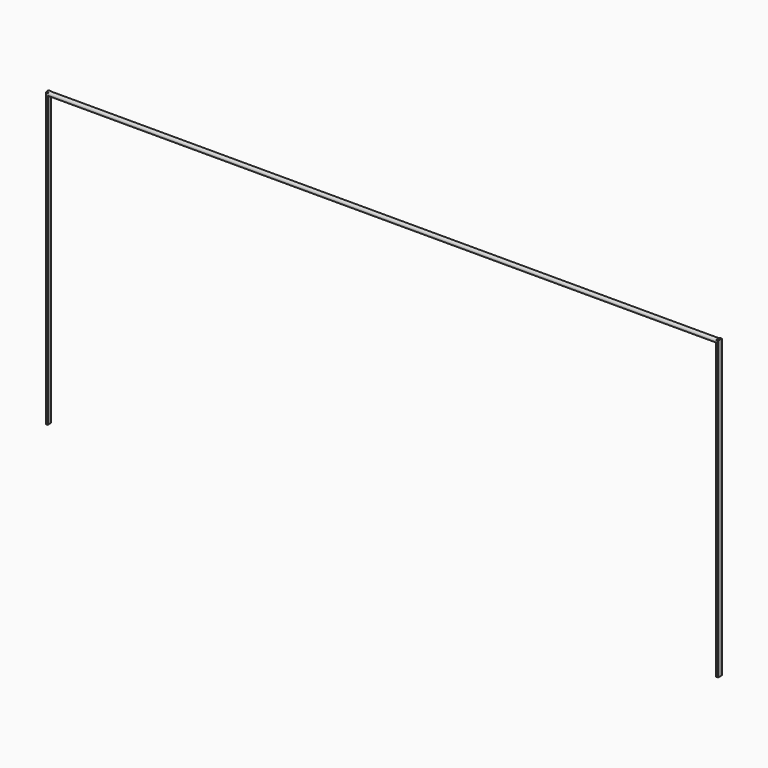
from build123d import *

# Parameters (mm, degrees)
F0_R     = 6.0866726669
F1_DEPTH = 2032
F2_W     = 12.4690905213
F2_H     = 123.6518211663
F3_DEPTH = 5.334
F4_W     = 14.5472697914
F4_H     = 136.9002275169
F5_DEPTH = 6.096
F6_W     = 6.096
F6_H     = 14.5472697914
F7_DEPTH = 762
F8_W     = 5.334
F8_H     = 12.4690905213
F9_DEPTH = 762


with BuildPart() as f1:
    # F0 (on Right) → F1 (new body)
    with BuildSketch(Plane.YZ):
        with Locations((-52.2143170238, 53.5131841898)):
            Circle(F0_R)
    extrude(amount=F1_DEPTH)

    # F2 (on Right) → F3 (join)
    with BuildSketch(Plane.YZ):
        with Locations((-52.214320749, -4.156364128)):
            Rectangle(F2_W, F2_H)
    extrude(amount=F3_DEPTH)

    # F4 (on face) → F5 (join)
    with BuildSketch(Plane.YZ.offset(2032)):
        with Locations((-52.2143188864, -10.5207953602)):
            Rectangle(F4_W, F4_H)
    extrude(amount=F5_DEPTH)

    # F6 (on face) → F7 (join)
    with BuildSketch(Plane(origin=(0, 0, -78.9709091187), x_dir=(1, 0, 0), z_dir=(0, 0, -1))):
        with Locations((2035.048, 52.2143188864)):
            Rectangle(F6_W, F6_H)
    extrude(amount=F7_DEPTH)

    # F8 (on face) → F9 (join)
    with BuildSketch(Plane(origin=(0, 0, -65.9822747111), x_dir=(1, 0, 0), z_dir=(0, 0, -1))):
        with Locations((2.667, 52.214320749)):
            Rectangle(F8_W, F8_H)
    extrude(amount=F9_DEPTH)


solid = f1.part
